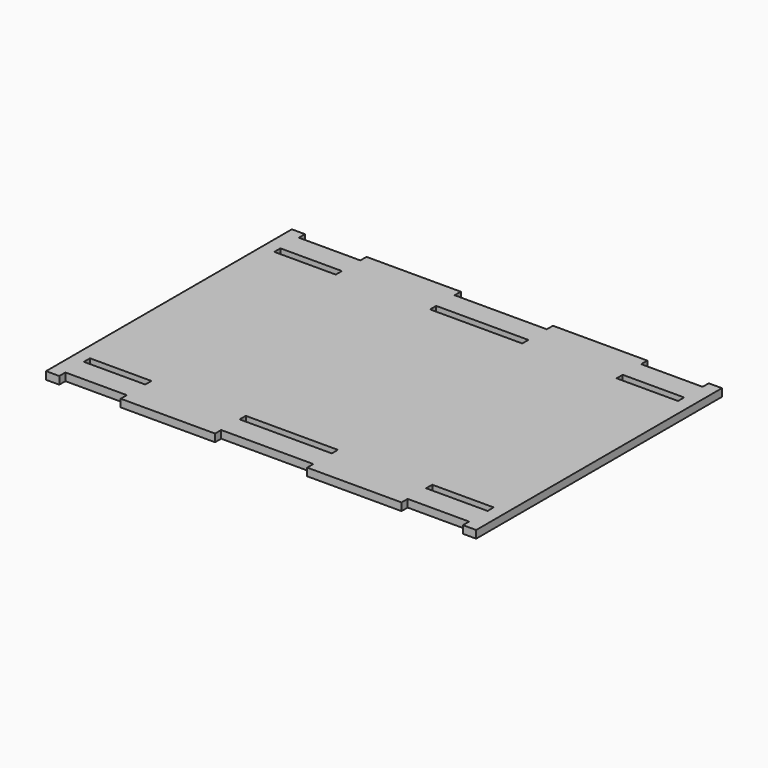
from build123d import *

# Parameters (mm, degrees)
F0_W     = 25.4
F0_H     = 3.175
F0_W_2   = 38.1
F1_DEPTH = 3.175


with BuildPart() as f1:
    # F0 (on Top) → F1 (new body)
    with BuildSketch(Plane.XY):
        Polygon((-70.7512, 63.5), (-76.2, 63.5), (-76.2, -63.5), (-70.7512, -63.5), (-70.7512, -60.325), (-45.3512, -60.325), (-45.3512, -63.5), (-6.35, -63.5), (-6.35, -60.325), (31.75, -60.325), (31.75, -63.5), (70.7512, -63.5), (70.7512, -60.325), (96.1512, -60.325), (96.1512, -63.5), (101.6, -63.5), (101.6, 63.5), (96.1512, 63.5), (96.1512, 60.325), (70.7512, 60.325), (70.7512, 63.5), (31.75, 63.5), (31.75, 60.325), (-6.35, 60.325), (-6.35, 63.5), (-45.3512, 63.5), (-45.3512, 60.325), (-70.7512, 60.325), align=None)
        with Locations((-58.0512, -49.2125)):
            Rectangle(F0_W, F0_H, mode=Mode.SUBTRACT)
        with Locations((12.7, -49.2125)):
            Rectangle(F0_W_2, F0_H, mode=Mode.SUBTRACT)
        with Locations((83.4512, -49.2125)):
            Rectangle(F0_W, F0_H, mode=Mode.SUBTRACT)
        with Locations((-58.0512, 49.2125)):
            Rectangle(F0_W, F0_H, mode=Mode.SUBTRACT)
        with Locations((12.7, 49.2125)):
            Rectangle(F0_W_2, F0_H, mode=Mode.SUBTRACT)
        with Locations((83.4512, 49.2125)):
            Rectangle(F0_W, F0_H, mode=Mode.SUBTRACT)
    extrude(amount=F1_DEPTH)


solid = f1.part
